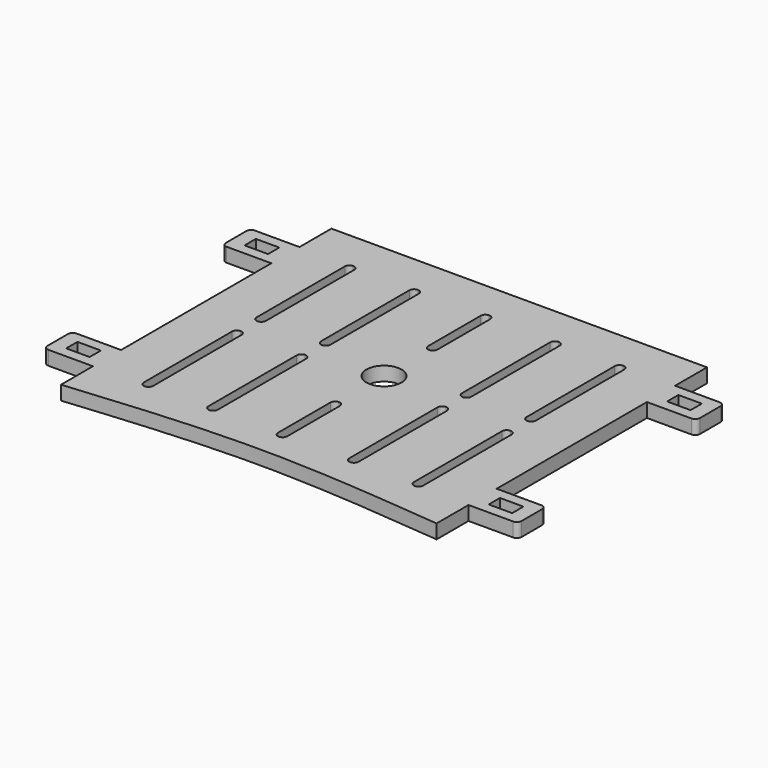
from build123d import *

# Parameters (mm, degrees)
F1_W     = 21
F1_H     = 15
F2_DEPTH = 6
F0_R     = 7.5
F3_DEPTH = 25
F5_DEPTH = 25
F6_R     = 2
F7_W     = 10
F7_H     = 6
F8_DEPTH = 25


with BuildPart() as f2:
    # F1 (on Top) → F2 (new body)
    with BuildSketch(Plane.XY):
        Polygon((-80, -72), (80, -72), (80, -55), (80, -40), (80, 40), (80, 55), (80, 72), (-80, 72), (-80, 55), (-80, 40), (-80, -40), (-80, -55), align=None)
        with Locations((90.5, -47.5)):
            Rectangle(F1_W, F1_H)
        with Locations((-90.5, -47.5)):
            Rectangle(F1_W, F1_H)
        with Locations((90.5, 47.5)):
            Rectangle(F1_W, F1_H)
        with Locations((-90.5, 47.5)):
            Rectangle(F1_W, F1_H)
    extrude(amount=-F2_DEPTH)

    # F0 (on Top) → F3 (cut)
    with BuildSketch(Plane.XY):
        with BuildLine():
            ThreePointArc((-57.5, 55.5), (-58.9142135624, 54.9142135624), (-59.5, 53.5))
            Line((-59.5, 53.5), (-59.5, 6.5))
            ThreePointArc((-59.5, 6.5), (-58.9142135624, 5.0857864376), (-57.5, 4.5))
            ThreePointArc((-57.5, 4.5), (-56.0857864376, 5.0857864376), (-55.5, 6.5))
            Line((-55.5, 6.5), (-55.5, 53.5))
            ThreePointArc((-55.5, 53.5), (-56.0857864376, 54.9142135624), (-57.5, 55.5))
        make_face()
        with BuildLine():
            ThreePointArc((-59.5, -53.5), (-58.9142135624, -54.9142135624), (-57.5, -55.5))
            ThreePointArc((-57.5, -55.5), (-56.0857864376, -54.9142135624), (-55.5, -53.5))
            Line((-55.5, -53.5), (-55.5, -6.5))
            ThreePointArc((-55.5, -6.5), (-56.0857864376, -5.0857864376), (-57.5, -4.5))
            ThreePointArc((-57.5, -4.5), (-58.9142135624, -5.0857864376), (-59.5, -6.5))
            Line((-59.5, -6.5), (-59.5, -53.5))
        make_face()
        with BuildLine():
            ThreePointArc((-28, 53.5), (-28.5857864376, 54.9142135624), (-30, 55.5))
            ThreePointArc((-30, 55.5), (-31.4142135624, 54.9142135624), (-32, 53.5))
            Line((-32, 53.5), (-32, 6.5))
            ThreePointArc((-32, 6.5), (-31.4142135624, 5.0857864376), (-30, 4.5))
            ThreePointArc((-30, 4.5), (-28.5857864376, 5.0857864376), (-28, 6.5))
            Line((-28, 6.5), (-28, 53.5))
        make_face()
        with BuildLine():
            ThreePointArc((-28, -6.5), (-28.5857864376, -5.0857864376), (-30, -4.5))
            ThreePointArc((-30, -4.5), (-31.4142135624, -5.0857864376), (-32, -6.5))
            Line((-32, -6.5), (-32, -53.5))
            ThreePointArc((-32, -53.5), (-31.4142135624, -54.9142135624), (-30, -55.5))
            ThreePointArc((-30, -55.5), (-28.5857864376, -54.9142135624), (-28, -53.5))
            Line((-28, -53.5), (-28, -6.5))
        make_face()
        Circle(F0_R)
        with BuildLine():
            ThreePointArc((0, 24), (1.4142135624, 24.5857864376), (2, 26))
            Line((2, 26), (2, 54))
            ThreePointArc((2, 54), (1.4142135624, 55.4142135624), (0, 56))
            ThreePointArc((0, 56), (-1.4142135624, 55.4142135624), (-2, 54))
            Line((-2, 54), (-2, 26))
            ThreePointArc((-2, 26), (-1.4142135624, 24.5857864376), (0, 24))
        make_face()
        with BuildLine():
            Line((2, -54), (2, -26))
            ThreePointArc((2, -26), (1.4142135624, -24.5857864376), (0, -24))
            ThreePointArc((0, -24), (-1.4142135624, -24.5857864376), (-2, -26))
            Line((-2, -26), (-2, -54))
            ThreePointArc((-2, -54), (-1.4142135624, -55.4142135624), (0, -56))
            ThreePointArc((0, -56), (1.4142135624, -55.4142135624), (2, -54))
        make_face()
        with BuildLine():
            Line((28, -6.5), (28, -53.5))
            ThreePointArc((28, -53.5), (28.5857864376, -54.9142135624), (30, -55.5))
            ThreePointArc((30, -55.5), (31.4142135624, -54.9142135624), (32, -53.5))
            Line((32, -53.5), (32, -6.5))
            ThreePointArc((32, -6.5), (31.4142135624, -5.0857864376), (30, -4.5))
            ThreePointArc((30, -4.5), (28.5857864376, -5.0857864376), (28, -6.5))
        make_face()
        with BuildLine():
            ThreePointArc((30, 4.5), (31.4142135624, 5.0857864376), (32, 6.5))
            Line((32, 6.5), (32, 53.5))
            ThreePointArc((32, 53.5), (31.4142135624, 54.9142135624), (30, 55.5))
            ThreePointArc((30, 55.5), (28.5857864376, 54.9142135624), (28, 53.5))
            Line((28, 53.5), (28, 6.5))
            ThreePointArc((28, 6.5), (28.5857864376, 5.0857864376), (30, 4.5))
        make_face()
        with BuildLine():
            ThreePointArc((55.5, 6.5), (56.0857864376, 5.0857864376), (57.5, 4.5))
            ThreePointArc((57.5, 4.5), (58.9142135624, 5.0857864376), (59.5, 6.5))
            Line((59.5, 6.5), (59.5, 53.5))
            ThreePointArc((59.5, 53.5), (58.9142135624, 54.9142135624), (57.5, 55.5))
            ThreePointArc((57.5, 55.5), (56.0857864376, 54.9142135624), (55.5, 53.5))
            Line((55.5, 53.5), (55.5, 6.5))
        make_face()
        with BuildLine():
            ThreePointArc((55.5, -53.5), (56.0857864376, -54.9142135624), (57.5, -55.5))
            ThreePointArc((57.5, -55.5), (58.9142135624, -54.9142135624), (59.5, -53.5))
            Line((59.5, -53.5), (59.5, -6.5))
            ThreePointArc((59.5, -6.5), (58.9142135624, -5.0857864376), (57.5, -4.5))
            ThreePointArc((57.5, -4.5), (56.0857864376, -5.0857864376), (55.5, -6.5))
            Line((55.5, -6.5), (55.5, -53.5))
        make_face()
    extrude(amount=-F3_DEPTH, mode=Mode.SUBTRACT)

    # F4 (on face) → F5 (cut)
    with BuildSketch(Plane.XY):
        with BuildLine():
            add(Edge.make_bspline(
                [(-80, -72), (-53.3333333333, -69.4902703762), (0, -64.4708111286), (53.3333333333, -69.4902703762), (80, -72)],
                knots=[0, 0, 0, 0, 0.5, 1, 1, 1, 1], degree=3))
            Line((-80, -72), (-75.6795704365, -86.1006528139))
            Line((-75.6795704365, -86.1006528139), (77.3649588227, -86.1006528139))
            Line((77.3649588227, -86.1006528139), (80, -72))
        make_face()
    extrude(amount=-F5_DEPTH, mode=Mode.SUBTRACT)

    # F6
    f6_edges = [f2.edges().sort_by_distance(p)[0] for p in [
        (-101, 40, -3),
        (-101, 55, -3),
        (-101, -40, -3),
        (-101, -55, -3),
        (101, -55, -3),
        (101, -40, -3),
        (101, 40, -3),
        (101, 55, -3),
    ]]
    fillet(f6_edges, radius=F6_R)

    # F7 (on face) → F8 (cut)
    with BuildSketch(Plane.XY):
        with Locations((-90, 47.5)):
            Rectangle(F7_W, F7_H)
        with Locations((-90, -47.5)):
            Rectangle(F7_W, F7_H)
        with Locations((90, 47.5)):
            Rectangle(F7_W, F7_H)
        with Locations((90, -47.5)):
            Rectangle(F7_W, F7_H)
    extrude(amount=-F8_DEPTH, mode=Mode.SUBTRACT)


solid = f2.part
